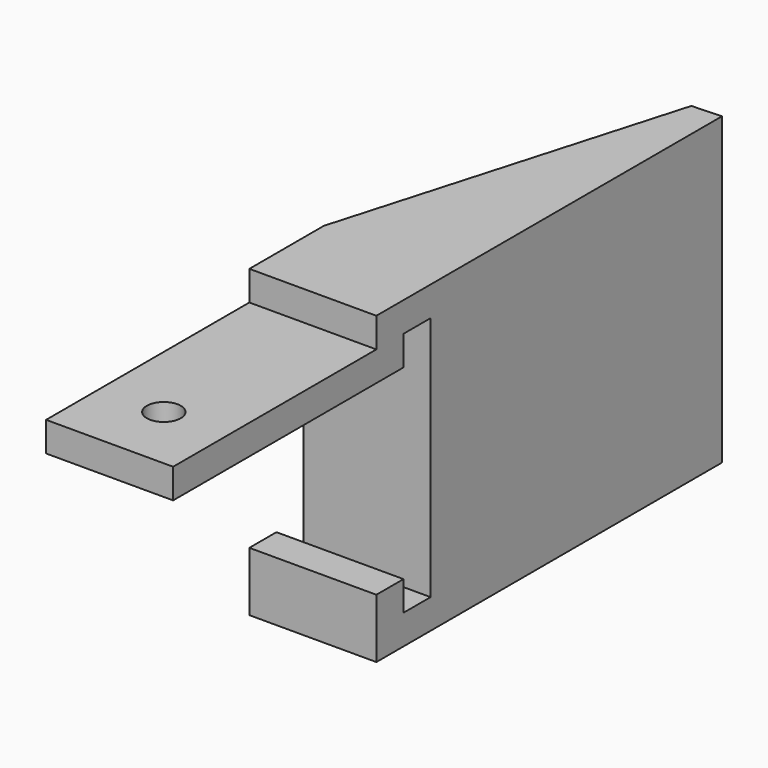
from build123d import *

# Parameters (mm, degrees)
F0_W      = 30
F0_H      = 22
F1_DEPTH  = 72
F3_DEPTH  = 72.001
F4_DEPTH  = 7
F6_DEPTH  = 7
F7_W      = 8
F7_H      = 44
F8_DEPTH  = 30.001
F9_W      = 30
F9_H      = 7
F10_DEPTH = 60
F11_R     = 4
F12_DEPTH = 65.001


with BuildPart() as f1:
    # F0 (on Top) → F1 (new body)
    with BuildSketch(Plane.XY):
        with Locations((-15, 11)):
            Rectangle(F0_W, F0_H)
        Polygon((-6.99437, 101.719299), (-30, 22), (0, 22), (0, 102), align=None)
    extrude(amount=F1_DEPTH)

    # F2 (on face) → F3 (cut, through all)
    with BuildSketch(Plane.XY.offset(72)):
        Polygon((-6.99437, 101.719299), (-30, 22), (-7, 22), align=None)
    extrude(amount=-F3_DEPTH, mode=Mode.SUBTRACT)

    # F2 (on face) → F4 (join)
    with BuildSketch(Plane.XY.offset(72)):
        Polygon((-6.99437, 101.719299), (-30, 22), (-7, 22), align=None)
    extrude(amount=-F4_DEPTH)

    # F5 (on face) → F6 (join)
    with BuildSketch(Plane(origin=(0, 0, 0), x_dir=(1, 0, 0), z_dir=(0, 0, -1))):
        Polygon((-6.99437, -101.719299), (-7, -22), (-30, -22), align=None)
    extrude(amount=-F6_DEPTH)

    # F7 (on face) → F8 (cut, through all)
    with BuildSketch(Plane(origin=(-30, 0, 0), x_dir=(0, -1, 0), z_dir=(-1, 0, 0))):
        Polygon((-8, 65), (-16, 65), (-16, 7), (-8, 7), (-8, 14), (-8, 58), align=None)
        with Locations((-4, 36)):
            Rectangle(F7_W, F7_H)
    extrude(amount=-F8_DEPTH, mode=Mode.SUBTRACT)

    # F9 (on face) → F10 (join)
    with BuildSketch(Plane.XZ):
        with Locations((-15, 61.5)):
            Rectangle(F9_W, F9_H)
    extrude(amount=F10_DEPTH)

    # F11 (on face) → F12 (cut, through all)
    with BuildSketch(Plane.XY.offset(65)):
        with Locations((-15, -44)):
            Circle(F11_R)
    extrude(amount=-F12_DEPTH, mode=Mode.SUBTRACT)


solid = f1.part
